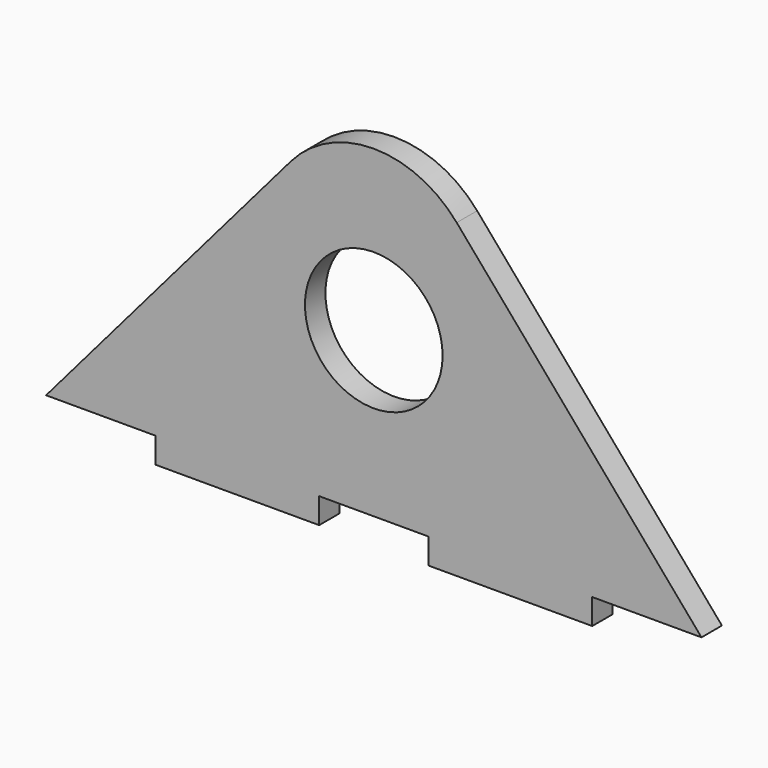
from build123d import *

# Parameters (mm, degrees)
F0_R     = 8.001
F1_DEPTH = 2.9718


with BuildPart() as f1:
    # F0 (on Front) → F1 (new body)
    with BuildSketch(Plane.XZ):
        with BuildLine():
            Line((-38.1, -19.05), (-25.4, -19.05))
            Line((-25.4, -19.05), (-25.4, -22.0218))
            Line((-25.4, -22.0218), (-6.35, -22.0218))
            Line((-6.35, -22.0218), (-6.35, -19.05))
            Line((-6.35, -19.05), (6.35, -19.05))
            Line((6.35, -19.05), (6.35, -22.0218))
            Line((6.35, -22.0218), (25.4, -22.0218))
            Line((25.4, -22.0218), (25.4, -19.05))
            Line((25.4, -19.05), (38.1, -19.05))
            Line((38.1, -19.05), (9.642559, 14.150348))
            ThreePointArc((9.642559, 14.150348), (0, 18.585298), (-9.642559, 14.150348))
            Line((-9.642559, 14.150348), (-38.1, -19.05))
        make_face()
        Circle(F0_R, mode=Mode.SUBTRACT)
    extrude(amount=F1_DEPTH)


solid = f1.part
